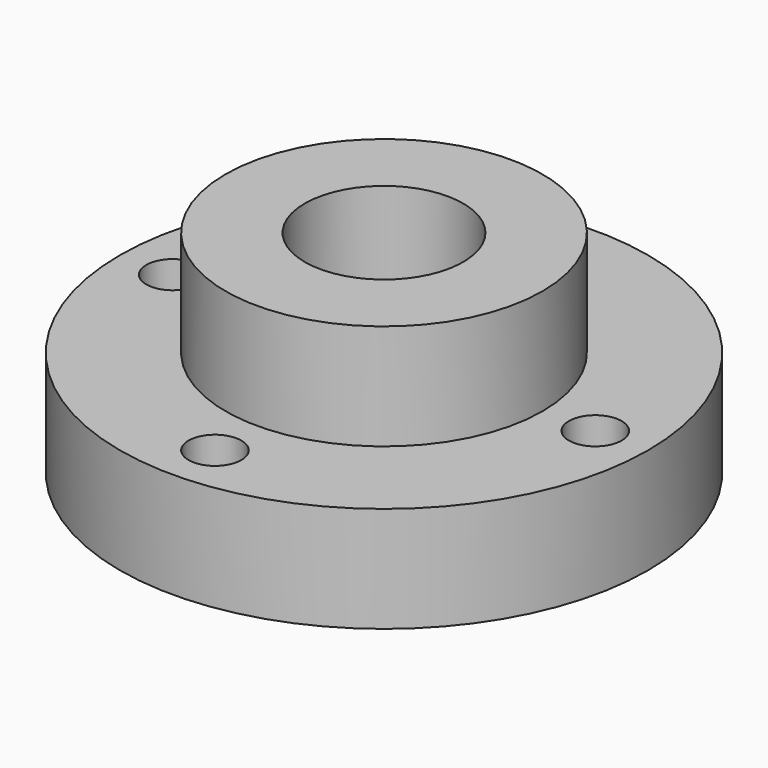
from build123d import *

# Parameters (mm, degrees)
F0_R     = 31.75
F0_R_2   = 19.05
F1_DEPTH = 12.7
F2_DEPTH = 25.4
F3_D     = 19.05
F5_D     = 6.35


with BuildPart() as f1:
    # F0 (on Top) → F1 (new body)
    with BuildSketch(Plane.XY):
        Circle(F0_R)
        Circle(F0_R_2, mode=Mode.SUBTRACT)
    extrude(amount=F1_DEPTH)

    # F0 (on Top) → F2 (join)
    with BuildSketch(Plane.XY):
        Circle(F0_R_2)
    extrude(amount=F2_DEPTH)

    # F3 (through all)
    with Locations(Plane(origin=(0, 0, 0), x_dir=(1, 0, 0), z_dir=(0, 0, -1))):
        with Locations((0, 0)):
            Hole(F3_D / 2)

    # F5 (through all)
    with Locations(Plane.XY.offset(12.7)):
        with Locations((0, 25.4), (-25.4, 0), (0, -25.4), (25.4, 0)):
            Hole(F5_D / 2)


solid = f1.part
